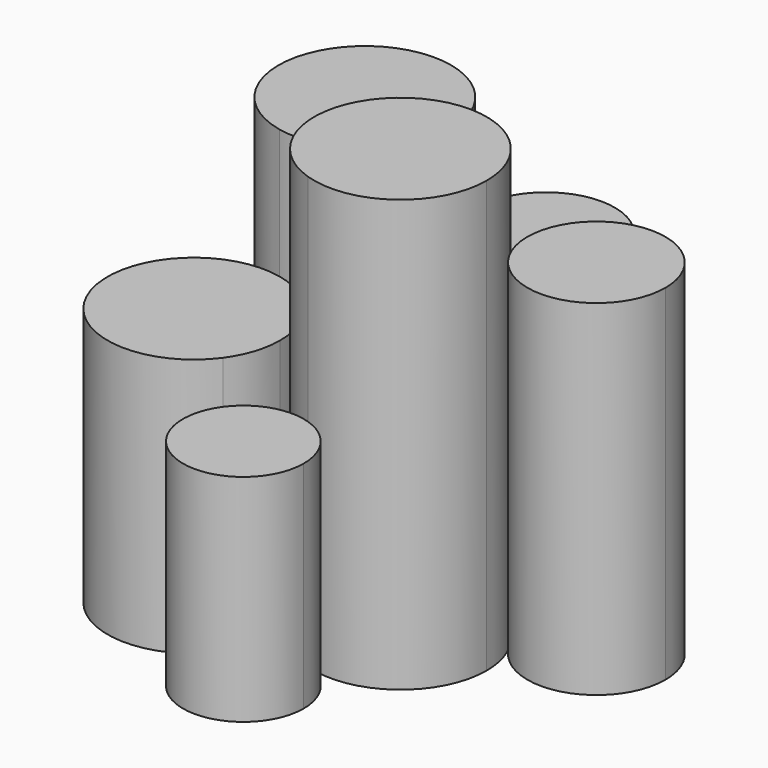
from build123d import *

# Parameters (mm, degrees)
F1_DEPTH = 63.5
F2_DEPTH = 57.15
F3_DEPTH = 38.1
F4_DEPTH = 44.45
F5_DEPTH = 50.8
F6_DEPTH = 31.75


with BuildPart() as f1:
    # F0 (on Top) → F1 (new body)
    with BuildSketch(Plane.XY):
        with BuildLine():
            ThreePointArc((-3.946422, -12.071278), (7.455549, -10.281283), (12.7, 0))
            ThreePointArc((12.7, 0), (12.298209, 3.169237), (11.118258, 6.137942))
            ThreePointArc((11.118258, 6.137942), (7.231833, 10.439856), (1.838386, 12.566238))
            ThreePointArc((1.838386, 12.566238), (-4.302478, 11.949004), (-9.427243, 8.509823))
            ThreePointArc((-9.427243, 8.509823), (-12.419143, 2.656102), (-12.083345, -3.90932))
            ThreePointArc((-12.083345, -3.90932), (-8.994039, -8.966452), (-3.946422, -12.071278))
        make_face()
    extrude(amount=F1_DEPTH)

    # F0 (on Top) → F2 (join)
    with BuildSketch(Plane.XY):
        with BuildLine():
            ThreePointArc((-21.510587, 4.600503), (-14.945166, 4.936302), (-9.427243, 8.509823))
            ThreePointArc((-9.427243, 8.509823), (-7.000879, 12.460918), (-6.154486, 17.019647))
            ThreePointArc((-6.154486, 17.019647), (-6.251582, 18.58707), (-6.541386, 20.130525))
            ThreePointArc((-6.541386, 20.130525), (-27.998325, 25.833284), (-21.510587, 4.600503))
        make_face()
    extrude(amount=F2_DEPTH)


with BuildPart() as f3:
    # F0 (on Top) → F3 (new body)
    with BuildSketch(Plane.XY):
        with BuildLine():
            ThreePointArc((-11.466689, -7.81864), (-11.6218, -5.839812), (-12.083345, -3.90932))
            ThreePointArc((-12.083345, -3.90932), (-15.656866, 1.608603), (-21.510587, 4.600503))
            ThreePointArc((-21.510587, 4.600503), (-36.027613, -12.358296), (-13.897412, -15.290718))
            ThreePointArc((-13.897412, -15.290718), (-12.089649, -11.747392), (-11.466689, -7.81864))
        make_face()
    extrude(amount=F3_DEPTH)


with BuildPart() as f4:
    # F0 (on Top) → F4 (new body)
    with BuildSketch(Plane.XY):
        with BuildLine():
            ThreePointArc((-6.541386, 20.130525), (-3.498764, 15.077434), (1.838386, 12.566238))
            ThreePointArc((1.838386, 12.566238), (7.357624, 13.300698), (11.66098, 16.833763))
            ThreePointArc((11.66098, 16.833763), (13.006536, 19.588515), (13.469094, 22.619228))
            ThreePointArc((13.469094, 22.619228), (2.055156, 32.701551), (-6.541386, 20.130525))
        make_face()
    extrude(amount=F4_DEPTH)


with BuildPart() as f5:
    # F0 (on Top) → F5 (new body)
    with BuildSketch(Plane.XY):
        with BuildLine():
            ThreePointArc((11.66098, 16.833763), (9.865919, 11.563167), (11.118258, 6.137942))
            ThreePointArc((11.118258, 6.137942), (22.548254, 1.209729), (30.172864, 11.048296))
            ThreePointArc((30.172864, 11.048296), (23.043578, 20.745738), (11.66098, 16.833763))
        make_face()
    extrude(amount=F5_DEPTH)


with BuildPart() as f6:
    # F0 (on Top) → F6 (new body)
    with BuildSketch(Plane.XY):
        with BuildLine():
            ThreePointArc((2.181082, -20.521172), (0.48798, -15.302288), (-3.946422, -12.071278))
            ThreePointArc((-3.946422, -12.071278), (-9.445442, -12.062831), (-13.897412, -15.290718))
            ThreePointArc((-13.897412, -15.290718), (-9.459044, -28.975101), (2.181082, -20.521172))
        make_face()
    extrude(amount=F6_DEPTH)


solid = Compound([f1.part, f3.part, f4.part, f5.part, f6.part])
